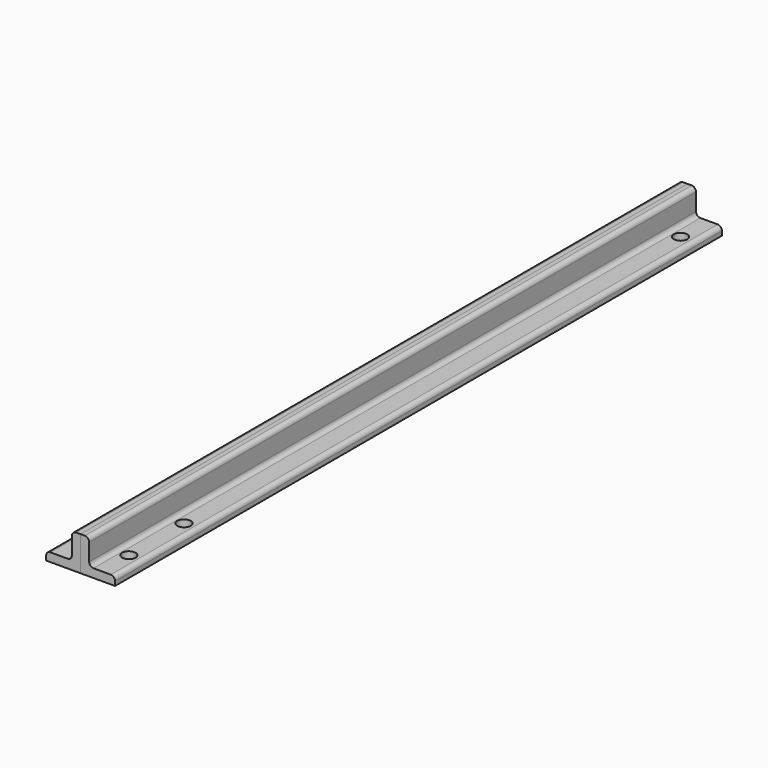
from build123d import *

# Parameters (mm, degrees)
F1_DEPTH = 139.7
F3_D     = 4.9784


with BuildPart() as f1:
    # F0 (on Front) → F1 (new body, symmetric)
    with BuildSketch(Plane.XZ):
        with BuildLine():
            Line((1.5875, 12.7), (0, 12.7))
            Line((0, 12.7), (0, 0))
            Line((0, 0), (12.7, 0))
            Line((12.7, 0), (12.7, 1.5875))
            ThreePointArc((12.7, 1.5875), (12.2350320151, 2.7100320151), (11.1125, 3.175))
            Line((11.1125, 3.175), (4.7625, 3.175))
            ThreePointArc((4.7625, 3.175), (3.6399679849, 3.6399679849), (3.175, 4.7625))
            Line((3.175, 4.7625), (3.175, 11.1125))
            ThreePointArc((3.175, 11.1125), (2.7100320151, 12.2350320151), (1.5875, 12.7))
        make_face()
    extrude(amount=F1_DEPTH, both=True)

    # F3 (through all)
    with Locations(Plane(origin=(0, 0, 0), x_dir=(1, 0, 0), z_dir=(0, 0, -1))):
        with Locations((7.62, -127), (7.62, 101.6), (7.62, 127)):
            Hole(F3_D / 2)


with BuildPart() as f4_1:
    # F4: instance of F1
    add(f1.part.mirror(Plane.YZ))


solid = Compound([f1.part, f4_1.part])
